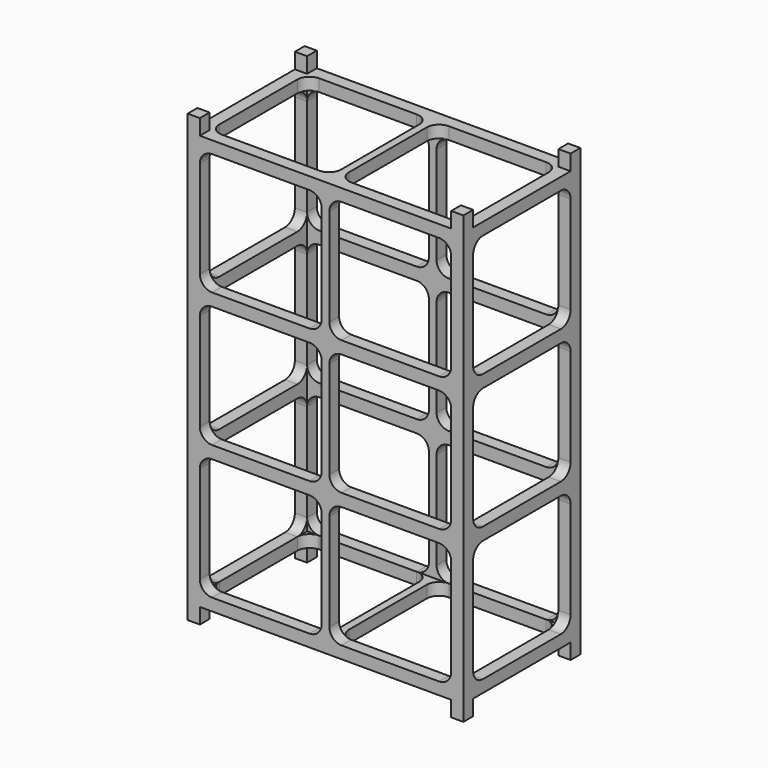
from build123d import *

# Parameters (mm, degrees)
F0_W      = 226.3
F0_H      = 120
F1_DEPTH  = 366
F3_DEPTH  = 12.75
F5_DEPTH  = 12.75
F6_W      = 206.3
F6_H      = 100
F7_DEPTH  = 340.5
F9_DEPTH  = 226.301
F11_DEPTH = 120.001
F13_DEPTH = 10
F15_DEPTH = 10


with BuildPart() as f1:
    # F0 (on Top) → F1 (new body)
    with BuildSketch(Plane.XY):
        Rectangle(F0_W, F0_H)
    extrude(amount=F1_DEPTH)

    # F2 (on face) → F3 (cut)
    with BuildSketch(Plane.XY.offset(366)):
        Polygon((-113.15, 50), (-113.15, -50), (-103.15, -50), (-103.15, -60), (103.15, -60), (103.15, -50), (113.15, -50), (113.15, 50), (103.15, 50), (103.15, 60), (-103.15, 60), (-103.15, 50), align=None)
    extrude(amount=-F3_DEPTH, mode=Mode.SUBTRACT)

    # F4 (on face) → F5 (cut)
    with BuildSketch(Plane(origin=(0, 0, 0), x_dir=(1, 0, 0), z_dir=(0, 0, -1))):
        Polygon((-113.15, 50), (-113.15, -50), (-103.15, -50), (-103.15, -60), (103.15, -60), (103.15, -50), (113.15, -50), (113.15, 50), (103.15, 50), (103.15, 60), (-103.15, 60), (-103.15, 50), align=None)
    extrude(amount=-F5_DEPTH, mode=Mode.SUBTRACT)

    # F6 (on face) → F7 (cut)
    with BuildSketch(Plane.XY.offset(353.25)):
        Rectangle(F6_W, F6_H)
    extrude(amount=-F7_DEPTH, mode=Mode.SUBTRACT)

    # F8 (on face) → F9 (cut, through all)
    with BuildSketch(Plane(origin=(-113.15, 0, 0), x_dir=(0, -1, 0), z_dir=(-1, 0, 0))):
        with BuildLine():
            ThreePointArc((50, 333.25), (47.071068, 340.321068), (40, 343.25))
            Line((40, 343.25), (-40, 343.25))
            ThreePointArc((-40, 343.25), (-47.071068, 340.321068), (-50, 333.25))
            Line((-50, 333.25), (-50, 253.25))
            ThreePointArc((-50, 253.25), (-47.071068, 246.178932), (-40, 243.25))
            Line((-40, 243.25), (40, 243.25))
            ThreePointArc((40, 243.25), (47.071068, 246.178932), (50, 253.25))
            Line((50, 253.25), (50, 333.25))
        make_face()
        with BuildLine():
            ThreePointArc((50, 223), (47.071068, 230.071068), (40, 233))
            Line((40, 233), (-40, 233))
            ThreePointArc((-40, 233), (-47.071068, 230.071068), (-50, 223))
            Line((-50, 223), (-50, 143))
            ThreePointArc((-50, 143), (-47.071068, 135.928932), (-40, 133))
            Line((-40, 133), (40, 133))
            ThreePointArc((40, 133), (47.071068, 135.928932), (50, 143))
            Line((50, 143), (50, 223))
        make_face()
        with BuildLine():
            Line((-40, 22.75), (40, 22.75))
            ThreePointArc((40, 22.75), (47.071068, 25.678932), (50, 32.75))
            Line((50, 32.75), (50, 112.75))
            ThreePointArc((50, 112.75), (47.071068, 119.821068), (40, 122.75))
            Line((40, 122.75), (-40, 122.75))
            ThreePointArc((-40, 122.75), (-47.071068, 119.821068), (-50, 112.75))
            Line((-50, 112.75), (-50, 32.75))
            ThreePointArc((-50, 32.75), (-47.071068, 25.678932), (-40, 22.75))
        make_face()
    extrude(amount=-F9_DEPTH, mode=Mode.SUBTRACT)

    # F10 (on face) → F11 (cut, through all)
    with BuildSketch(Plane.XZ.offset(60)):
        with BuildLine():
            Line((-13.15, 343.25), (-93.15, 343.25))
            ThreePointArc((-93.15, 343.25), (-100.221068, 340.321068), (-103.15, 333.25))
            Line((-103.15, 333.25), (-103.15, 253.25))
            ThreePointArc((-103.15, 253.25), (-100.221068, 246.178932), (-93.15, 243.25))
            Line((-93.15, 243.25), (-13.15, 243.25))
            ThreePointArc((-13.15, 243.25), (-6.078932, 246.178932), (-3.15, 253.25))
            Line((-3.15, 253.25), (-3.15, 333.25))
            ThreePointArc((-3.15, 333.25), (-6.078932, 340.321068), (-13.15, 343.25))
        make_face()
        with BuildLine():
            ThreePointArc((3.15, 253.25), (6.078932, 246.178932), (13.15, 243.25))
            Line((13.15, 243.25), (93.15, 243.25))
            ThreePointArc((93.15, 243.25), (100.221068, 246.178932), (103.15, 253.25))
            Line((103.15, 253.25), (103.15, 333.25))
            ThreePointArc((103.15, 333.25), (100.221068, 340.321068), (93.15, 343.25))
            Line((93.15, 343.25), (13.15, 343.25))
            ThreePointArc((13.15, 343.25), (6.078932, 340.321068), (3.15, 333.25))
            Line((3.15, 333.25), (3.15, 253.25))
        make_face()
        with BuildLine():
            Line((-13.15, 233), (-93.15, 233))
            ThreePointArc((-93.15, 233), (-100.221068, 230.071068), (-103.15, 223))
            Line((-103.15, 223), (-103.15, 143))
            ThreePointArc((-103.15, 143), (-100.221068, 135.928932), (-93.15, 133))
            Line((-93.15, 133), (-13.15, 133))
            ThreePointArc((-13.15, 133), (-6.078932, 135.928932), (-3.15, 143))
            Line((-3.15, 143), (-3.15, 223))
            ThreePointArc((-3.15, 223), (-6.078932, 230.071068), (-13.15, 233))
        make_face()
        with BuildLine():
            Line((93.15, 233), (13.15, 233))
            ThreePointArc((13.15, 233), (6.078932, 230.071068), (3.15, 223))
            Line((3.15, 223), (3.15, 143))
            ThreePointArc((3.15, 143), (6.078932, 135.928932), (13.15, 133))
            Line((13.15, 133), (93.15, 133))
            ThreePointArc((93.15, 133), (100.221068, 135.928932), (103.15, 143))
            Line((103.15, 143), (103.15, 223))
            ThreePointArc((103.15, 223), (100.221068, 230.071068), (93.15, 233))
        make_face()
        with BuildLine():
            Line((93.15, 122.75), (13.15, 122.75))
            ThreePointArc((13.15, 122.75), (6.078932, 119.821068), (3.15, 112.75))
            Line((3.15, 112.75), (3.15, 32.75))
            ThreePointArc((3.15, 32.75), (6.078932, 25.678932), (13.15, 22.75))
            Line((13.15, 22.75), (93.15, 22.75))
            ThreePointArc((93.15, 22.75), (100.221068, 25.678932), (103.15, 32.75))
            Line((103.15, 32.75), (103.15, 112.75))
            ThreePointArc((103.15, 112.75), (100.221068, 119.821068), (93.15, 122.75))
        make_face()
        with BuildLine():
            ThreePointArc((-3.15, 112.75), (-6.078932, 119.821068), (-13.15, 122.75))
            Line((-13.15, 122.75), (-93.15, 122.75))
            ThreePointArc((-93.15, 122.75), (-100.221068, 119.821068), (-103.15, 112.75))
            Line((-103.15, 112.75), (-103.15, 32.75))
            ThreePointArc((-103.15, 32.75), (-100.221068, 25.678932), (-93.15, 22.75))
            Line((-93.15, 22.75), (-13.15, 22.75))
            ThreePointArc((-13.15, 22.75), (-6.078932, 25.678932), (-3.15, 32.75))
            Line((-3.15, 32.75), (-3.15, 112.75))
        make_face()
    extrude(amount=-F11_DEPTH, mode=Mode.SUBTRACT)

    # F12 (on face) → F13 (join)
    with BuildSketch(Plane.XY.offset(353.25)):
        with BuildLine():
            Line((-93.15, 50), (-103.15, 50))
            Line((-103.15, 50), (-103.15, 40))
            ThreePointArc((-103.15, 40), (-100.221068, 47.071068), (-93.15, 50))
        make_face()
        with BuildLine():
            ThreePointArc((-93.15, -50), (-100.221068, -47.071068), (-103.15, -40))
            Line((-103.15, -40), (-103.15, -50))
            Line((-103.15, -50), (-93.15, -50))
        make_face()
        with BuildLine():
            Line((103.15, 40), (103.15, 50))
            Line((103.15, 50), (93.15, 50))
            ThreePointArc((93.15, 50), (100.221068, 47.071068), (103.15, 40))
        make_face()
        with BuildLine():
            Line((103.15, -50), (103.15, -40))
            ThreePointArc((103.15, -40), (100.221068, -47.071068), (93.15, -50))
            Line((93.15, -50), (103.15, -50))
        make_face()
        with BuildLine():
            ThreePointArc((-13.15, 50), (-6.078932, 47.071068), (-3.15, 40))
            Line((-3.15, 40), (-3.15, -40))
            ThreePointArc((-3.15, -40), (-6.078932, -47.071068), (-13.15, -50))
            Line((-13.15, -50), (13.15, -50))
            ThreePointArc((13.15, -50), (6.078932, -47.071068), (3.15, -40))
            Line((3.15, -40), (3.15, 40))
            ThreePointArc((3.15, 40), (6.078932, 47.071068), (13.15, 50))
            Line((13.15, 50), (-13.15, 50))
        make_face()
    extrude(amount=-F13_DEPTH)

    # F14 (on face) → F15 (join)
    with BuildSketch(Plane(origin=(0, 0, 12.75), x_dir=(1, 0, 0), z_dir=(0, 0, -1))):
        with BuildLine():
            Line((-93.15, 50), (-103.15, 50))
            Line((-103.15, 50), (-103.15, 40))
            ThreePointArc((-103.15, 40), (-100.221068, 47.071068), (-93.15, 50))
        make_face()
        with BuildLine():
            Line((-103.15, -40), (-103.15, -50))
            Line((-103.15, -50), (-93.15, -50))
            ThreePointArc((-93.15, -50), (-100.221068, -47.071068), (-103.15, -40))
        make_face()
        with BuildLine():
            Line((103.15, 50), (93.15, 50))
            ThreePointArc((93.15, 50), (100.221068, 47.071068), (103.15, 40))
            Line((103.15, 40), (103.15, 50))
        make_face()
        with BuildLine():
            Line((103.15, -50), (103.15, -40))
            ThreePointArc((103.15, -40), (100.221068, -47.071068), (93.15, -50))
            Line((93.15, -50), (103.15, -50))
        make_face()
        with BuildLine():
            ThreePointArc((-13.15, 50), (-6.078932, 47.071068), (-3.15, 40))
            Line((-3.15, 40), (-3.15, -40))
            ThreePointArc((-3.15, -40), (-6.078932, -47.071068), (-13.15, -50))
            Line((-13.15, -50), (13.15, -50))
            ThreePointArc((13.15, -50), (6.078932, -47.071068), (3.15, -40))
            Line((3.15, -40), (3.15, 40))
            ThreePointArc((3.15, 40), (6.078932, 47.071068), (13.15, 50))
            Line((13.15, 50), (-13.15, 50))
        make_face()
    extrude(amount=-F15_DEPTH)


solid = f1.part
